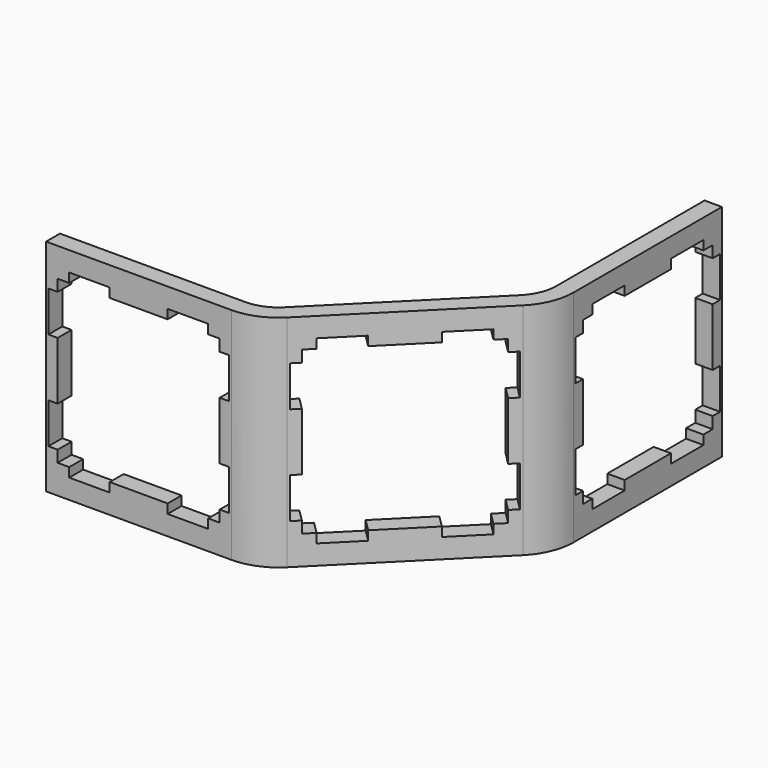
from build123d import *

# Parameters (mm, degrees)
PAD_DEPTH       = 19
POCKET_DEPTH    = 11.62232
POCKET002_DEPTH = 1.501
POCKET003_DEPTH = 1.501


with BuildPart() as part:
    # Sketch → Pad (new body)
    with BuildSketch(Plane.XY):
        with BuildLine():
            Line((0, 0), (16, 0))
            ThreePointArc((16, 0), (17.959845, 0.389838), (19.62132, 1.500001))
            Line((19.62132, 1.500001), (30.935023, 12.813715))
            ThreePointArc((30.935023, 12.813715), (32.045185, 14.475191), (32.435022, 16.435035))
            Line((32.435022, 32.435035), (32.435022, 16.435035))
            Line((30.935022, 32.435035), (32.435022, 32.435035))
            Line((30.935022, 16.435035), (30.935022, 32.435035))
            ThreePointArc((29.874363, 13.874375), (30.659366, 15.049216), (30.935022, 16.435035))
            Line((29.874363, 13.874375), (18.56066, 2.560661))
            ThreePointArc((16, 1.5), (17.385819, 1.775657), (18.56066, 2.560661))
            Line((16, 1.5), (0, 1.5))
            Line((0, 1.5), (0, 0))
        make_face()
    extrude(amount=PAD_DEPTH)

    # Sketch004 → Pocket (cut, through all)
    with BuildSketch(Plane(origin=(8.000009, -8.000001, 0), x_dir=(-0.707106, -0.707107, 0), z_dir=(-0.707107, 0.707106, 0))):
        Polygon((-28.935023, 17.3), (-25.435023, 17.3), (-25.435023, 16.5), (-20.435023, 16.5), (-20.435023, 17.3), (-16.935023, 17.3), (-16.935023, 16.5), (-15.935023, 16.5), (-15.935023, 15.5), (-15.135024, 15.5), (-15.135024, 12), (-15.935023, 12), (-15.935023, 7), (-15.135024, 7), (-15.135024, 3.5), (-15.935023, 3.5), (-15.935023, 2.5), (-16.935023, 2.5), (-16.935023, 1.7), (-20.435023, 1.7), (-20.435023, 2.5), (-25.435023, 2.5), (-25.435023, 1.7), (-28.935023, 1.7), (-28.935023, 2.5), (-29.935023, 2.5), (-29.935023, 3.5), (-30.735024, 3.5), (-30.735024, 7), (-29.935023, 7), (-29.935023, 12), (-30.735024, 12), (-30.735024, 15.5), (-29.935023, 15.5), (-29.935023, 16.5), (-28.935023, 16.5), align=None)
    extrude(amount=-POCKET_DEPTH, mode=Mode.SUBTRACT)

    # Sketch004001 → Pocket002 (cut, through all)
    with BuildSketch(Plane(origin=(30.935022, 0, 0), x_dir=(0, -1, 0), z_dir=(-1, 0, 0))):
        Polygon((-30.435035, 17.3), (-26.935035, 17.3), (-26.935035, 16.5), (-21.935035, 16.5), (-21.935035, 17.3), (-18.435035, 17.3), (-18.435035, 16.5), (-17.435035, 16.5), (-17.435035, 15.5), (-16.635036, 15.5), (-16.635036, 12), (-17.435035, 12), (-17.435035, 7), (-16.635036, 7), (-16.635036, 3.5), (-17.435035, 3.5), (-17.435035, 2.5), (-18.435035, 2.5), (-18.435035, 1.7), (-21.935035, 1.7), (-21.935035, 2.5), (-26.935035, 2.5), (-26.935035, 1.7), (-30.435035, 1.7), (-30.435035, 2.5), (-31.435035, 2.5), (-31.435035, 3.5), (-32.235036, 3.5), (-32.235036, 7), (-31.435035, 7), (-31.435035, 12), (-32.235036, 12), (-32.235036, 15.5), (-31.435035, 15.5), (-31.435035, 16.5), (-30.435035, 16.5), align=None)
    extrude(amount=-POCKET002_DEPTH, mode=Mode.SUBTRACT)

    # Sketch004001001 → Pocket003 (cut, through all)
    with BuildSketch(Plane(origin=(0, 1.5, 0), x_dir=(-1, 0, 0), z_dir=(0, 1, 0))):
        Polygon((-14, 17.3), (-10.5, 17.3), (-10.5, 16.5), (-5.5, 16.5), (-5.5, 17.3), (-2, 17.3), (-2, 16.5), (-1, 16.5), (-1, 15.5), (-0.200001, 15.5), (-0.200001, 12), (-1, 12), (-1, 7), (-0.200001, 7), (-0.200001, 3.5), (-1, 3.5), (-1, 2.5), (-2, 2.5), (-2, 1.7), (-5.5, 1.7), (-5.5, 2.5), (-10.5, 2.5), (-10.5, 1.7), (-14, 1.7), (-14, 2.5), (-15, 2.5), (-15, 3.5), (-15.800001, 3.5), (-15.800001, 7), (-15, 7), (-15, 12), (-15.800001, 12), (-15.800001, 15.5), (-15, 15.5), (-15, 16.5), (-14, 16.5), align=None)
    extrude(amount=-POCKET003_DEPTH, mode=Mode.SUBTRACT)


with BuildPart() as part_1:
    # Clone placement: moved
    add(part.part.moved(Location((0, 2.38, 19))))


with BuildPart() as part_2:
    # Clone001 placement: moved
    add(part_1.part.moved(Location((0, 4.75, 19))))


with BuildPart() as part_3:
    # Clone002 placement: moved
    add(part_2.part.moved(Location((0, -2.38, 19))))


with BuildPart() as part_4:
    # Clone003 placement: moved
    add(part_3.part.moved(Location((0, -4.75, 19))))


solid = part_4.part
